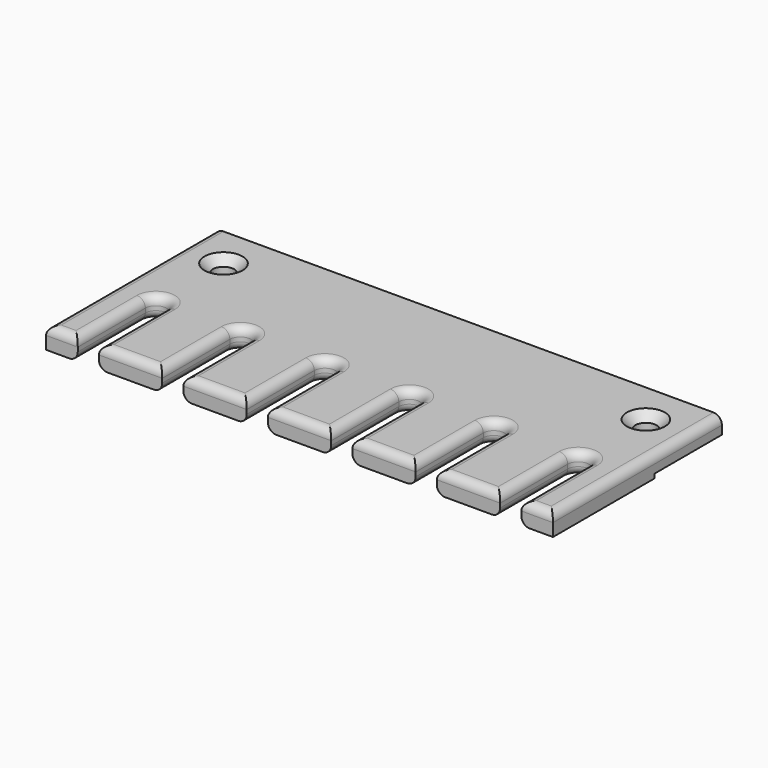
from build123d import *

# Parameters (mm, degrees)
F1_DEPTH = 5
F2_START = 1
F0_W     = 120
F0_H     = 20
F0_R     = 2.5
F2_DEPTH = 4
F3_SIZE  = 2
F4_R     = 2


with BuildPart() as f1:
    # F0 (on Top) → F1 (new body)
    with BuildSketch(Plane.XY):
        with BuildLine():
            Line((74.967873916, 9.3117384353), (-45.032126084, 9.3117384353))
            Line((-45.032126084, 9.3117384353), (-45.032126084, -20.6882615647))
            Line((-45.032126084, -20.6882615647), (-37.532126084, -20.6882615647))
            Line((-37.532126084, -20.6882615647), (-37.532126084, -0.6882615647))
            ThreePointArc((-37.532126084, -0.6882615647), (-35.032126084, 1.8117384353), (-32.532126084, -0.6882615647))
            Line((-32.532126084, -0.6882615647), (-32.532126084, -20.6882615647))
            Line((-32.532126084, -20.6882615647), (-17.532126084, -20.6882615647))
            Line((-17.532126084, -20.6882615647), (-17.532126084, -0.6882615647))
            ThreePointArc((-17.532126084, -0.6882615647), (-15.032126084, 1.8117384353), (-12.532126084, -0.6882615647))
            Line((-12.532126084, -0.6882615647), (-12.532126084, -20.6882615647))
            Line((-12.532126084, -20.6882615647), (2.467873916, -20.6882615647))
            Line((2.467873916, -20.6882615647), (2.467873916, -0.6882615647))
            ThreePointArc((2.467873916, -0.6882615647), (4.967873916, 1.8117384353), (7.467873916, -0.6882615647))
            Line((7.467873916, -0.6882615647), (7.467873916, -20.6882615647))
            Line((7.467873916, -20.6882615647), (22.467873916, -20.6882615647))
            Line((22.467873916, -20.6882615647), (22.467873916, -0.6882615647))
            ThreePointArc((22.467873916, -0.6882615647), (24.967873916, 1.8117384353), (27.467873916, -0.6882615647))
            Line((27.467873916, -0.6882615647), (27.467873916, -20.6882615647))
            Line((27.467873916, -20.6882615647), (42.467873916, -20.6882615647))
            Line((42.467873916, -20.6882615647), (42.467873916, -0.6882615647))
            ThreePointArc((42.467873916, -0.6882615647), (44.967873916, 1.8117384353), (47.467873916, -0.6882615647))
            Line((47.467873916, -0.6882615647), (47.467873916, -20.6882615647))
            Line((47.467873916, -20.6882615647), (62.467873916, -20.6882615647))
            Line((62.467873916, -20.6882615647), (62.467873916, -0.6882615647))
            ThreePointArc((62.467873916, -0.6882615647), (64.967873916, 1.8117384353), (67.467873916, -0.6882615647))
            Line((67.467873916, -0.6882615647), (67.467873916, -20.6882615647))
            Line((67.467873916, -20.6882615647), (74.967873916, -20.6882615647))
            Line((74.967873916, -20.6882615647), (74.967873916, 9.3117384353))
        make_face()
    extrude(amount=F1_DEPTH)

    # F0 (on Top) → F2 (join)
    with BuildSketch(Plane.XY.offset(F2_START)):
        with Locations((14.967873916, 19.3117384353)):
            Rectangle(F0_W, F0_H)
        with Locations((-35.032126084, 19.3117384353)):
            Circle(F0_R, mode=Mode.SUBTRACT)
        with Locations((64.967873916, 19.3117384353)):
            Circle(F0_R, mode=Mode.SUBTRACT)
    extrude(amount=F2_DEPTH)

    # F3
    f3_edges = [f1.edges().sort_by_distance(p)[0] for p in [
        (-37.532126, 19.311738, 5),
        (62.467874, 19.311738, 5),
    ]]
    chamfer(f3_edges, length=F3_SIZE)

    # F4
    f4_edges = [f1.edges().sort_by_distance(p)[0] for p in [
        (-37.532126, -10.688262, 5),
        (-41.282126, -20.688262, 5),
        (-25.032126, -20.688262, 5),
        (-17.532126, -10.688262, 5),
        (-5.032126, -20.688262, 5),
        (2.467874, -10.688262, 5),
        (14.967874, -20.688262, 5),
        (22.467874, -10.688262, 5),
        (34.967874, -20.688262, 5),
        (42.467874, -10.688262, 5),
        (54.967874, -20.688262, 5),
        (62.467874, -10.688262, 5),
        (71.217874, -20.688262, 5),
        (-45.032126, 4.311738, 5),
        (74.967874, 4.311738, 5),
        (27.467874, -10.688262, 0),
        (42.467874, -10.688262, 0),
        (62.467874, -10.688262, 0),
        (2.467874, -10.688262, 0),
        (-17.532126, -10.688262, 0),
        (-32.532126, -10.688262, 0),
    ]]
    fillet(f4_edges, radius=F4_R)


solid = f1.part
